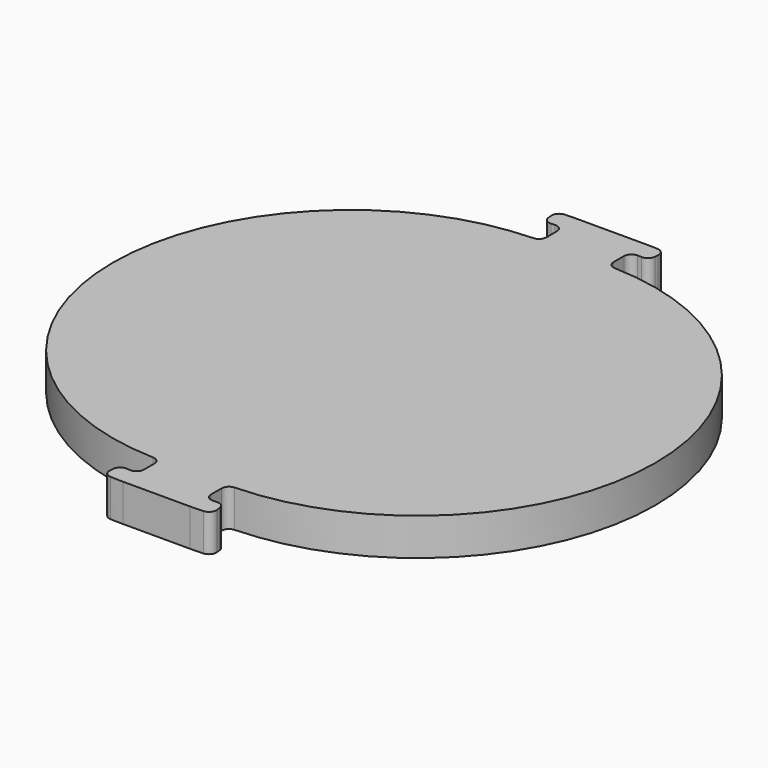
from build123d import *

# Parameters (mm, degrees)
F1_DEPTH = 6.35
F2_R     = 1.27


with BuildPart() as f1:
    # F0 (on Top) → F1 (new body)
    with BuildSketch(Plane.XY):
        with BuildLine():
            Line((0, -40.48125), (0, -41.275))
            Line((0, -41.275), (0, -41.28198))
            Line((0, -41.28198), (0, -45.24375))
            ThreePointArc((0, -45.24375), (-1.616893, -45.209426), (-3.230874, -45.106514))
            Line((-3.230874, -45.106514), (-3.500113, -48.270078))
            ThreePointArc((-3.500113, -48.270078), (-1.751635, -48.381565), (0, -48.41875))
            Line((0, -48.41875), (11.43, -48.41875))
            ThreePointArc((11.43, -48.41875), (13.181635, -48.381565), (14.930113, -48.270078))
            Line((14.930113, -48.270078), (14.660874, -45.106514))
            ThreePointArc((14.660874, -45.106514), (13.046893, -45.209426), (11.43, -45.24375))
            Line((11.43, -45.24375), (11.43, -40.48125))
            ThreePointArc((11.43, -40.48125), (51.91125, 0), (11.43, 40.48125))
            Line((11.43, 40.48125), (11.43, 45.24375))
            ThreePointArc((11.43, 45.24375), (13.046893, 45.209426), (14.660874, 45.106514))
            Line((14.660874, 45.106514), (14.930113, 48.270078))
            ThreePointArc((14.930113, 48.270078), (13.181635, 48.381565), (11.43, 48.41875))
            Line((11.43, 48.41875), (0, 48.41875))
            ThreePointArc((0, 48.41875), (-1.751635, 48.381565), (-3.500113, 48.270078))
            Line((-3.500113, 48.270078), (-3.230874, 45.106514))
            ThreePointArc((-3.230874, 45.106514), (-1.616893, 45.209426), (0, 45.24375))
            Line((0, 45.24375), (0, 41.275))
            Line((0, 41.275), (0, 41.207306))
            Line((0, 41.207306), (0, 40.48125))
            ThreePointArc((0, 40.48125), (-40.48125, 0), (0, -40.48125))
        make_face()
    extrude(amount=F1_DEPTH)

    # F2
    f2_edges = [f1.edges().sort_by_distance(p)[0] for p in [
        (0, -40.48125, 3.175),
        (11.43, -40.48125, 3.175),
        (14.930113, -48.270078, 3.175),
        (14.660874, -45.106514, 3.175),
        (-3.500113, -48.270078, 3.175),
        (-3.230874, -45.106514, 3.175),
        (14.660874, 45.106514, 3.175),
        (14.930113, 48.270078, 3.175),
        (-3.500113, 48.270078, 3.175),
        (-3.230874, 45.106514, 3.175),
        (0, 45.24375, 3.175),
        (0, 40.48125, 3.175),
        (11.43, -45.24375, 3.175),
        (0, -45.24375, 3.175),
        (11.43, 40.48125, 3.175),
        (11.43, 45.24375, 3.175),
    ]]
    fillet(f2_edges, radius=F2_R)


solid = f1.part
